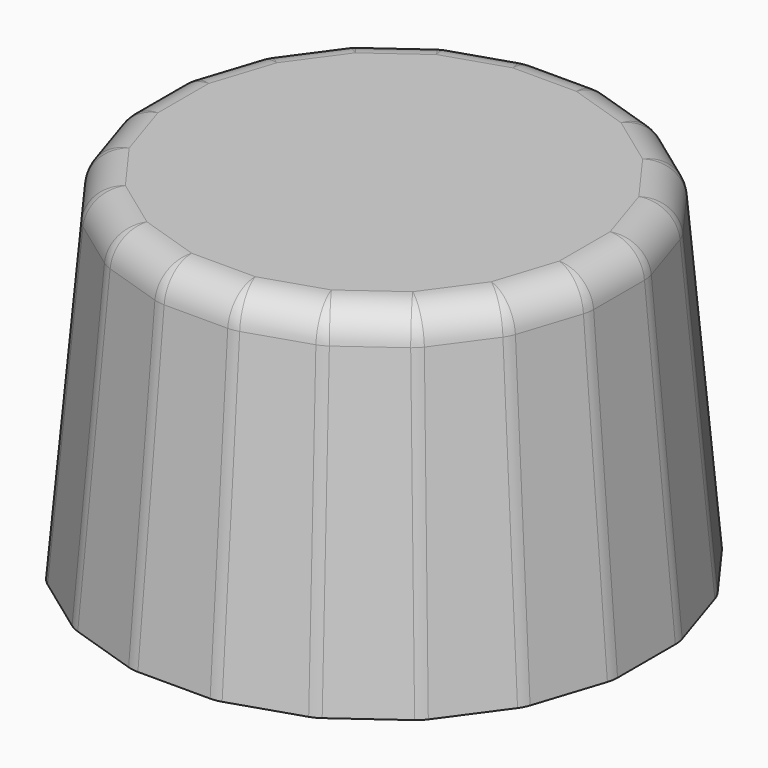
from build123d import *

# Parameters (mm, degrees)
F1_DEPTH = 20
F1_TAPER = 5
F2_R     = 2


with BuildPart() as f1:
    # F0 (on Top) → F1 (new body)
    with BuildSketch(Plane.XY):
        Polygon((15.2196083218, -2.410549146), (15.2196083218, 2.410549146), (13.729807018, 6.9956860923), (10.8960365421, 10.8960365421), (6.9956860923, 13.729807018), (2.410549146, 15.2196083218), (-2.410549146, 15.2196083218), (-6.9956860923, 13.729807018), (-10.8960365421, 10.8960365421), (-13.729807018, 6.9956860923), (-15.2196083218, 2.410549146), (-15.2196083218, -2.410549146), (-13.729807018, -6.9956860923), (-10.8960365421, -10.8960365421), (-6.9956860923, -13.729807018), (-2.410549146, -15.2196083218), (2.410549146, -15.2196083218), (6.9956860923, -13.729807018), (10.8960365421, -10.8960365421), (13.729807018, -6.9956860923), align=None)
    extrude(amount=F1_DEPTH, taper=F1_TAPER)

    # F2
    f2_edges = [f1.edges().sort_by_distance(p)[0] for p in [
        (0, 13.469835, 20),
        (4.162408, 12.810574, 20),
        (7.91737, 10.897325, 20),
        (-10.897325, 7.91737, 20),
        (-12.810574, -4.162408, 20),
        (-10.897325, -7.91737, 20),
        (-7.91737, -10.897325, 20),
        (-4.162408, -12.810574, 20),
        (0, -13.469835, 20),
        (4.162408, -12.810574, 20),
        (7.91737, -10.897325, 20),
        (10.897325, -7.91737, 20),
        (12.810574, -4.162408, 20),
        (13.469835, 0, 20),
        (12.810574, 4.162408, 20),
        (10.897325, 7.91737, 20),
        (-4.162408, 12.810574, 20),
        (-7.91737, 10.897325, 20),
        (-12.810574, 4.162408, 20),
        (-13.469835, 0, 20),
        (2.271981, 14.344722, 10),
        (-2.271981, 14.344722, 10),
        (-6.593545, 12.94056, 10),
        (-10.269687, 10.269687, 10),
        (-12.94056, 6.593545, 10),
        (-14.344722, 2.271981, 10),
        (-14.344722, -2.271981, 10),
        (-12.94056, -6.593545, 10),
        (-10.269687, -10.269687, 10),
        (-6.593545, -12.94056, 10),
        (-2.271981, -14.344722, 10),
        (2.271981, -14.344722, 10),
        (6.593545, -12.94056, 10),
        (10.269687, -10.269687, 10),
        (12.94056, 6.593545, 10),
        (6.593545, 12.94056, 10),
        (10.269687, 10.269687, 10),
        (14.344722, 2.271981, 10),
        (14.344722, -2.271981, 10),
        (12.94056, -6.593545, 10),
    ]]
    fillet(f2_edges, radius=F2_R)


solid = f1.part
